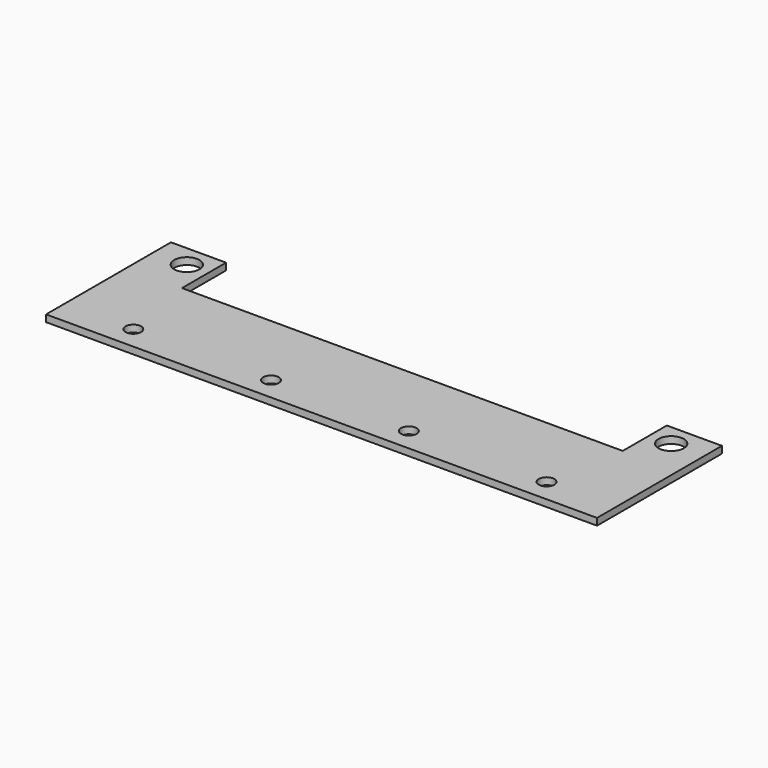
from build123d import *

# Parameters (mm, degrees)
PAD_DEPTH     = 1.5
SKETCH001_R   = 1.7
HOLE_DEPTH    = 25
SKETCH002_R   = 2.75
HOLE001_DEPTH = 25


with BuildPart() as part:
    # Sketch → Pad (new body)
    with BuildSketch(Plane.XY):
        Polygon((-60, 11), (-60, -11), (60, -11), (60, 11), (60, 23), (48, 23), (48, 11), (-48, 11), (-48, 23), (-60, 23), align=None)
    extrude(amount=PAD_DEPTH)

    # Sketch001 (on Face8 of Pad) → Hole (cut)
    with BuildSketch(Plane.XY.offset(1.5)):
        with Locations((-45, -6)):
            Circle(SKETCH001_R)
        with Locations((-15, -6)):
            Circle(SKETCH001_R)
        with Locations((15, -6)):
            Circle(SKETCH001_R)
        with Locations((45, -6)):
            Circle(SKETCH001_R)
    extrude(amount=-HOLE_DEPTH, mode=Mode.SUBTRACT)

    # Sketch002 (on Face5 of Hole) → Hole001 (cut)
    with BuildSketch(Plane.XY.offset(1.5)):
        with Locations((52.75, 18.25)):
            Circle(SKETCH002_R)
        with Locations((-52.75, 18.25)):
            Circle(SKETCH002_R)
    extrude(amount=-HOLE001_DEPTH, mode=Mode.SUBTRACT)


solid = part.part
